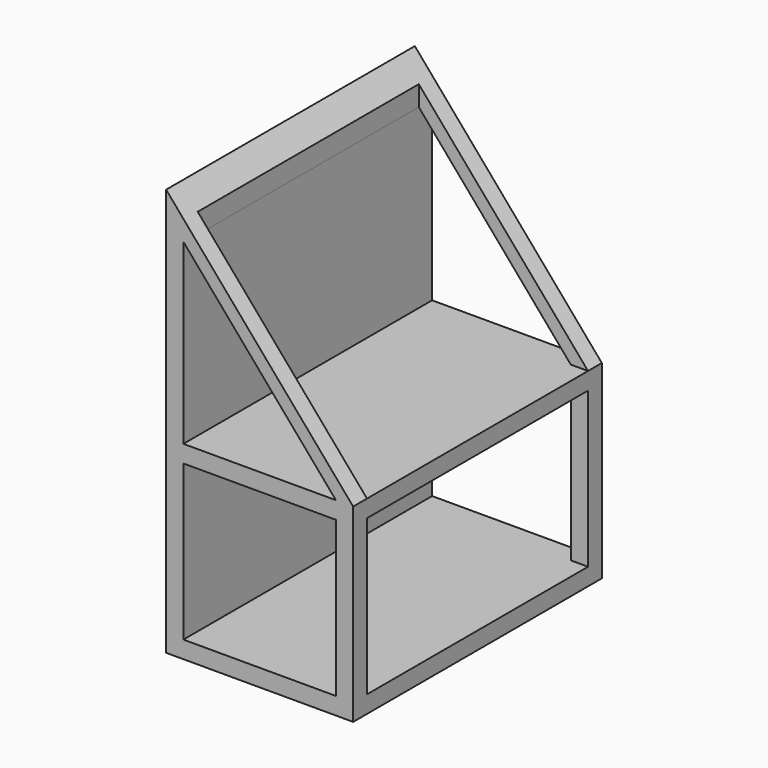
from build123d import *

# Parameters (mm, degrees)
F1_DEPTH = 180
F2_W     = 88.2857142857
F2_H     = 89.7844721901
F3_DEPTH = 294
F4_W     = 160
F4_H     = 89.7844721901
F4_H_2   = 169.9516549903
F5_DEPTH = 98


with BuildPart() as f1:
    # F0 (on Front) → F1 (new body)
    with BuildSketch(Plane.XZ):
        Polygon((-74.0419839551, 155.4725316765), (-74.0419839551, 5.1880594864), (-74.0419839551, -80.6452738469), (34.2437303306, -80.6452738469), (34.2437303306, -59.6452738469), (34.2437303306, 29.1391983432), align=None)
    extrude(amount=F1_DEPTH)

    # F2 (on face) → F3 (cut)
    with BuildSketch(Plane.XZ.offset(180)):
        Polygon((-64.0419839551, 132.1391983432), (-64.0419839551, 29.1391983432), (24.2437303306, 29.1391983432), align=None)
        with Locations((-19.8991268123, -25.7530377519)):
            Rectangle(F2_W, F2_H)
    extrude(amount=-F3_DEPTH, mode=Mode.SUBTRACT)

    # F4 (on face) → F5 (cut)
    with BuildSketch(Plane.YZ.offset(34.2437303306)):
        with Locations((-90, -25.7530377519)):
            Rectangle(F4_W, F4_H)
        with Locations((-90, 114.1150258383)):
            Rectangle(F4_W, F4_H_2)
    extrude(amount=-F5_DEPTH, mode=Mode.SUBTRACT)


solid = f1.part
